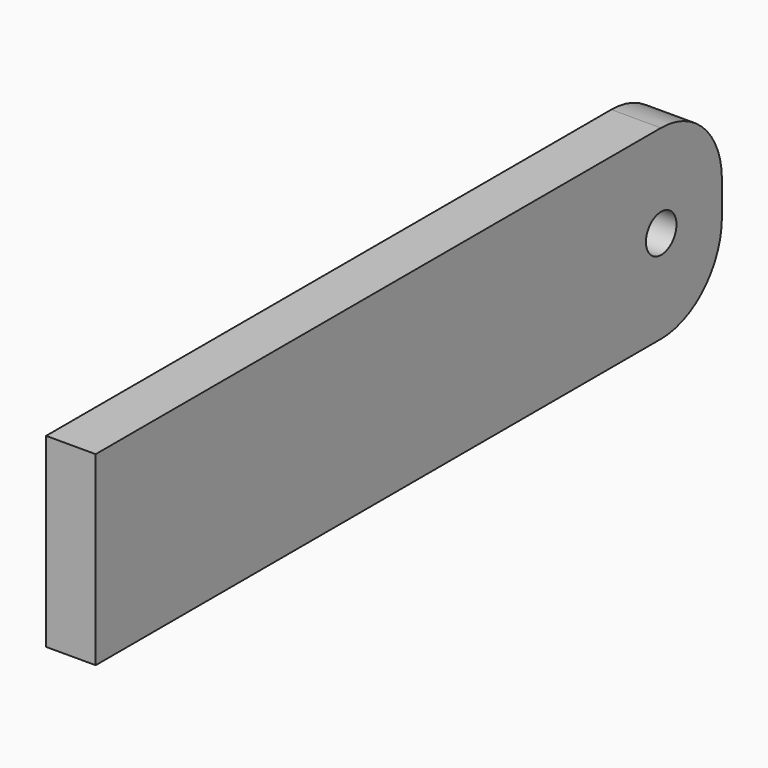
from build123d import *

# Parameters (mm, degrees)
F0_R     = 0.5
F1_DEPTH = 1.3


with BuildPart() as f1:
    # F0 (on Right) → F1 (new body)
    with BuildSketch(Plane.YZ):
        with BuildLine():
            Line((18.513693, 0), (0, 0))
            Line((0, 0), (0, -4.8697))
            Line((0, -4.8697), (18.513693, -4.8697))
            ThreePointArc((18.513693, -4.8697), (19.927907, -4.283914), (20.513693, -2.8697))
            Line((20.513693, -2.8697), (20.513693, -2))
            ThreePointArc((20.513693, -2), (19.927907, -0.585786), (18.513693, 0))
        make_face()
        with Locations((18.524457, -2.43485)):
            Circle(F0_R, mode=Mode.SUBTRACT)
    extrude(amount=F1_DEPTH)


solid = f1.part
